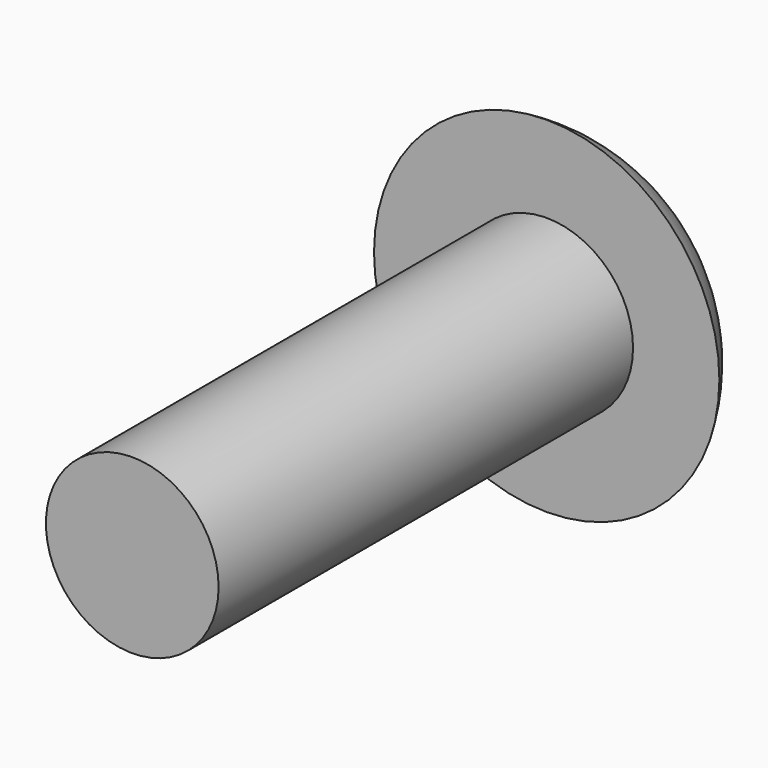
from build123d import *

# Parameters (mm, degrees)
F0_R     = 6.35
F1_DEPTH = 38.1


with BuildPart() as f1:
    # F0 (on Front) → F1 (new body)
    with BuildSketch(Plane.XZ):
        Circle(F0_R)
    extrude(amount=F1_DEPTH)

    # F2 (on Top) → F3 (revolve)
    with BuildSketch(Plane.XY):
        with BuildLine():
            Line((0, 6.35), (0, 0))
            Line((0, 0), (12.7, 0))
            ThreePointArc((12.7, 0), (7.320327, 5.115653), (0, 6.35))
        make_face()
    revolve(axis=Axis((0, 3.175, 0), (0, -1, 0)))


solid = f1.part
